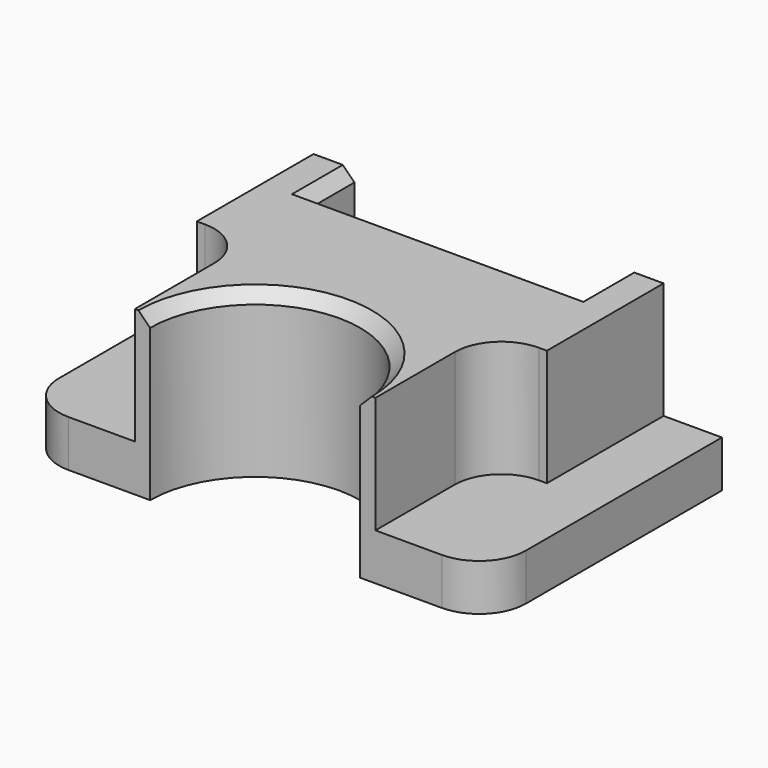
from build123d import *

# Parameters (mm, degrees)
F0_W     = 50.8
F0_H     = 31.75
F1_DEPTH = 5.08
F3_DEPTH = 12.7
F5_DEPTH = 17.78
F6_R     = 5.08
F7_R     = 5.08
F8_SIZE  = 1.27


with BuildPart() as f1:
    # F0 (on Top) → F1 (new body)
    with BuildSketch(Plane.XY):
        Rectangle(F0_W, F0_H)
    extrude(amount=F1_DEPTH)

    # F2 (on face) → F3 (join)
    with BuildSketch(Plane.XY.offset(5.08)):
        Polygon((-14.5904901437, 15.875), (-19.05, 15.875), (-19.05, 0), (-13.0905322731, 0), (-13.0905322731, -15.875), (13.0905322731, -15.875), (13.0905322731, 0), (19.05, 0), (19.05, 15.875), (14.5904901437, 15.875), (14.5904901437, 10.2269826457), (-14.5904901437, 10.2269826457), align=None)
    extrude(amount=F3_DEPTH)

    # F4 (on face) → F5 (cut, through all)
    with BuildSketch(Plane.XY.offset(17.78)):
        with BuildLine():
            Line((-11.43, -15.875), (11.43, -15.875))
            ThreePointArc((11.43, -15.875), (0, -4.445), (-11.43, -15.875))
        make_face()
    extrude(amount=-F5_DEPTH, mode=Mode.SUBTRACT)

    # F6
    f6_edges = [f1.edges().sort_by_distance(p)[0] for p in [
        (-13.090532, 0, 11.43),
        (13.090532, 0, 11.43),
    ]]
    fillet(f6_edges, radius=F6_R)

    # F7
    f7_edges = [f1.edges().sort_by_distance(p)[0] for p in [
        (25.4, -15.875, 2.54),
        (-25.4, -15.875, 2.54),
    ]]
    fillet(f7_edges, radius=F7_R)

    # F8
    f8_edges = [f1.edges().sort_by_distance(p)[0] for p in [
        (0, -4.445, 17.78),
        (0, 10.226983, 17.78),
        (-14.59049, 13.050991, 17.78),
        (14.59049, 13.050991, 17.78),
    ]]
    chamfer(f8_edges, length=F8_SIZE)


solid = f1.part
